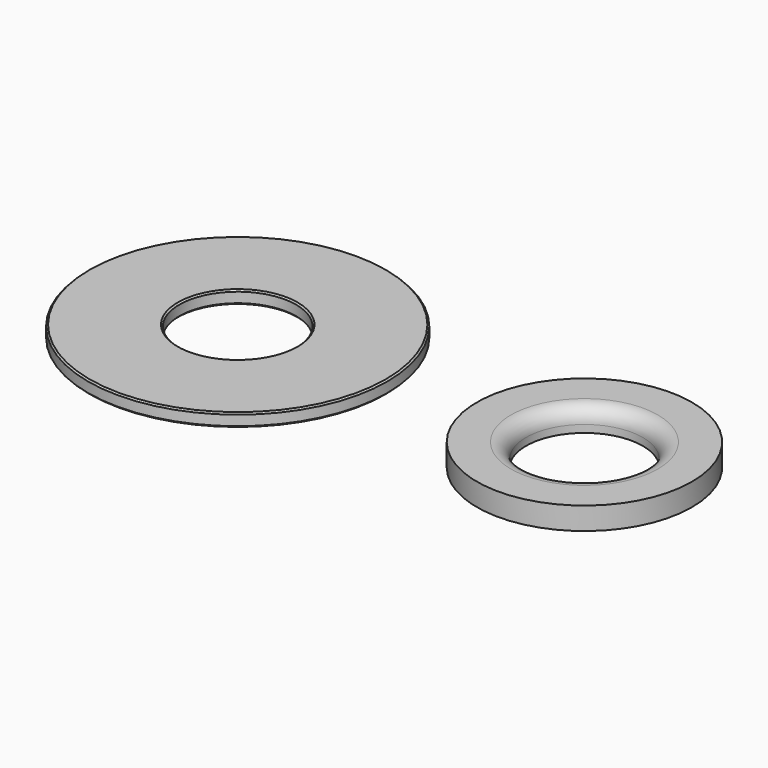
from build123d import *

# Parameters (mm, degrees)
F0_R     = 8
F0_R_2   = 3.125
F1_DEPTH = 0.7
F2_SIZE  = 0.08
F0_R_3   = 5.75
F3_DEPTH = 1.2
F4_R     = 0.8


with BuildPart() as f1:
    # F0 (on Top) → F1 (new body)
    with BuildSketch(Plane.XY):
        Circle(F0_R)
        Circle(F0_R_2, mode=Mode.SUBTRACT)
    extrude(amount=F1_DEPTH)

    # F2
    f2_edges = [f1.edges().sort_by_distance(p)[0] for p in [
        (-8, 0, 0),
        (-8, 0, 0.7),
        (-3.125, 0, 0),
        (-3.125, 0, 0.7),
    ]]
    chamfer(f2_edges, length=F2_SIZE)


with BuildPart() as f3:
    # F0 (on Top) → F3 (new body)
    with BuildSketch(Plane.XY):
        with Locations((18.537663, 0)):
            Circle(F0_R_3)
        with Locations((18.537663, 0)):
            Circle(F0_R_2, mode=Mode.SUBTRACT)
    extrude(amount=F3_DEPTH)

    # F4
    f4_edges = [f3.edges().sort_by_distance(p)[0] for p in [
        (15.412663, 0, 1.2),
    ]]
    fillet(f4_edges, radius=F4_R)


solid = Compound([f1.part, f3.part])
